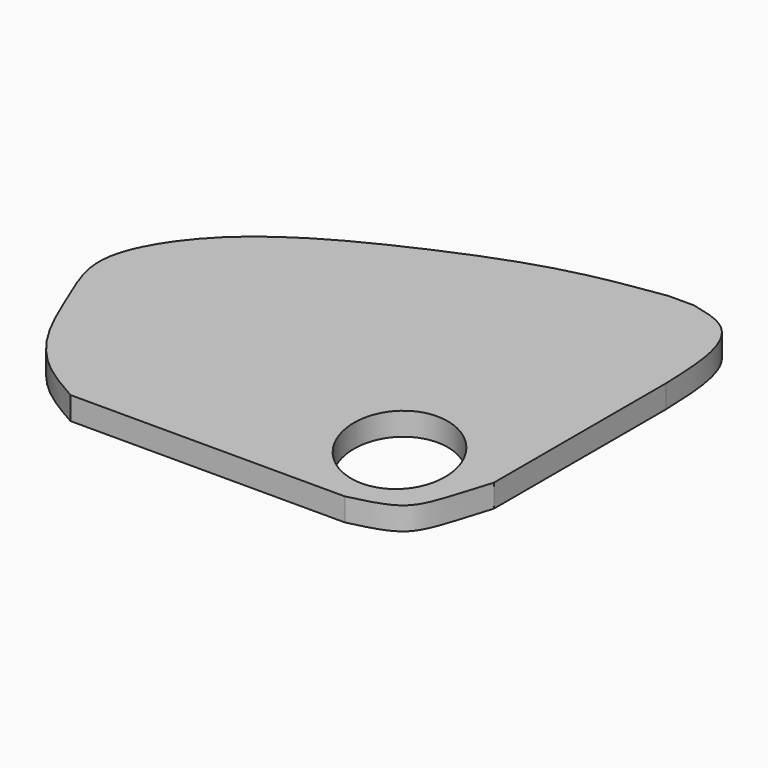
from build123d import *

# Parameters (mm, degrees)
F0_W     = 400
F0_H     = 350
F1_DEPTH = 19
F3_DEPTH = 19.001
F4_DEPTH = 19.0010001
F5_DEPTH = 19.0010001
F6_DEPTH = 19.0010001


with BuildPart() as f1:
    # F0 (on Top) → F1 (new body)
    with BuildSketch(Plane.XY):
        Rectangle(F0_W, F0_H)
    extrude(amount=F1_DEPTH)

    # F2 (on face) → F3 (cut, through all)
    with BuildSketch(Plane.XY.offset(19)):
        with BuildLine():
            add(Edge.make_bspline(
                [(152.8396010399, -148.7412303686), (216.1242403951, -109.1998705066), (140.7543141826, -58.9859616655), (65.38438797, -8.7720528245), (77.4696748273, -98.5273215276), (89.5549616846, -188.2825902307), (152.8396010399, -148.7412303686)],
                knots=[0, 0, 0, 2.0943951024, 2.0943951024, 4.1887902048, 4.1887902048, 6.2831853072, 6.2831853072, 6.2831853072], degree=2, weights=[1, 0.5, 1, 0.5, 1, 0.5, 1]))
        make_face()
        with BuildLine():
            Line((-200, -175), (-90.526111424, -175))
            add(Edge.make_bspline(
                [(-90.526111424, -175), (-103.8382685329, -167.4219505571), (-130.7476441047, -152.1035782684), (-160.2179153869, -113.0041133944), (-179.1350797652, -64.0107909146), (-201.1973124328, -14.6085460662), (-170.9775737898, 44.1821535107), (-118.5196742107, 89.26889049), (-43.9693923119, 127.1515212), (43.7289003313, 162.9187394455), (98.4420131893, 171.0765702578), (124.7557550669, 175)],
                knots=[0, 0, 0, 0, 0.093825449, 0.1896600397, 0.2907935652, 0.3896043383, 0.4970656848, 0.612322755, 0.7395214544, 0.8747253655, 1, 1, 1, 1], degree=3))
            Line((124.7557550669, 175), (-200, 175))
            Line((-200, 175), (-200, -175))
        make_face()
    extrude(amount=-F3_DEPTH, mode=Mode.SUBTRACT)

    # F2 (on face) → F4 (cut, through all)
    with BuildSketch(Plane.XY.offset(19)):
        with BuildLine():
            add(Edge.make_bspline(
                [(145.9577679634, 175), (157.2542816099, 172.3680174619), (180.0206535737, 167.0636646908), (198.0698354585, 133.3686007913), (199.3063042805, 98.2551615621), (200, 78.5554796457)],
                knots=[0, 0, 0, 0, 0.3018398528, 0.6083114292, 1, 1, 1, 1], degree=3))
            Line((200, 78.5554796457), (200, 175))
            Line((200, 175), (145.9577679634, 175))
        make_face()
    extrude(amount=-F4_DEPTH, mode=Mode.SUBTRACT)

    # F2 (on face) → F5 (cut, through all)
    with BuildSketch(Plane.XY.offset(19)):
        with BuildLine():
            add(Edge.make_bspline(
                [(136.7158591747, -175), (150.0790380051, -171.8445438862), (175.5674379653, -165.8259514162), (188.1410879475, -141.4578501721), (199.558189704, -99.9470767575), (200, -99.7587963939)],
                knots=[0, 0, 0, 0, 0.3282721453, 0.6261333355, 0.960409863, 0.960409863, 0.960409863, 0.960409863], degree=3))
            Line((136.7158591747, -175), (200, -175))
            Line((200, -175), (200, -100.3024280071))
            Line((200, -100.3024280071), (200, -99.7587963939))
        make_face()
    extrude(amount=-F5_DEPTH, mode=Mode.SUBTRACT)

    # F2 (on face) → F6 (cut, through all)
    with BuildSketch(Plane.XY.offset(19)):
        with BuildLine():
            add(Edge.make_bspline(
                [(152.8396010399, -148.7412303686), (216.1242403951, -109.1998705066), (140.7543141826, -58.9859616655), (65.38438797, -8.7720528245), (77.4696748273, -98.5273215276), (89.5549616846, -188.2825902307), (152.8396010399, -148.7412303686)],
                knots=[0, 0, 0, 2.0943951024, 2.0943951024, 4.1887902048, 4.1887902048, 6.2831853072, 6.2831853072, 6.2831853072], degree=2, weights=[1, 0.5, 1, 0.5, 1, 0.5, 1]))
        make_face()
    extrude(amount=-F6_DEPTH, mode=Mode.SUBTRACT)


solid = f1.part
